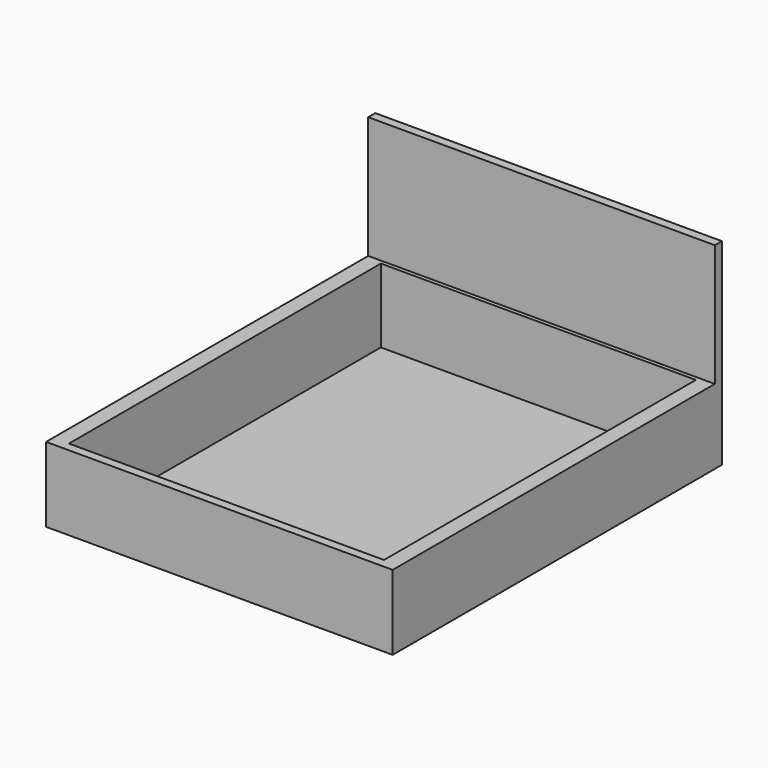
from build123d import *

# Parameters (mm, degrees)
F0_W     = 1600
F0_H     = 1980
F1_DEPTH = 380
F2_DEPTH = 1000
F3_DEPTH = 5


with BuildPart() as f1:
    # F0 (on Top) → F1 (new body)
    with BuildSketch(Plane.XY):
        Polygon((-800, 1000), (-880, 1000), (-880, -1045), (880, -1045), (880, 1000), (800, 1000), align=None)
        with Locations((0, -10)):
            Rectangle(F0_W, F0_H, mode=Mode.SUBTRACT)
    extrude(amount=F1_DEPTH)

    # F0 (on Top) → F2 (join)
    with BuildSketch(Plane.XY):
        Polygon((880, 1045), (-880, 1045), (-880, 1000), (-800, 1000), (800, 1000), (880, 1000), align=None)
    extrude(amount=F2_DEPTH)

    # F0 (on Top) → F3 (join)
    with BuildSketch(Plane.XY):
        with Locations((0, -10)):
            Rectangle(F0_W, F0_H)
    extrude(amount=F3_DEPTH)


solid = f1.part
